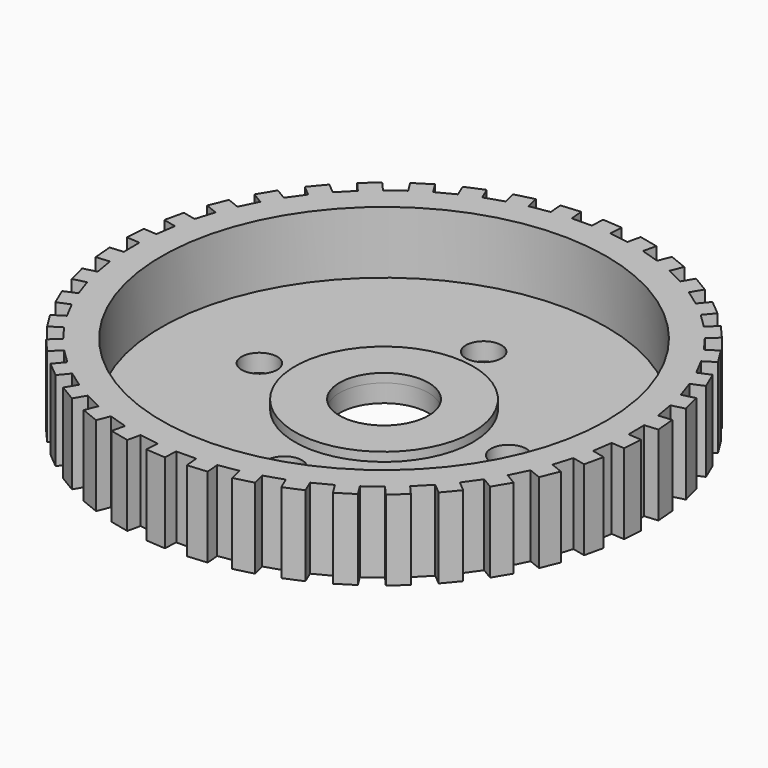
from build123d import *

# Parameters (mm, degrees)
PAD_DEPTH       = 9
SKETCH001_R     = 25
POCKET_DEPTH    = 7
SKETCH002_R     = 5
POCKET001_DEPTH = 2.001
SKETCH003_R     = 2
POCKET002_DEPTH = 2.001
SKETCH004_R     = 10
SKETCH004_R_2   = 5
PAD001_DEPTH    = 1


with BuildPart() as part:
    # Sketch → Pad (new body)
    with BuildSketch(Plane.XY):
        Polygon((-26.503024, 9.47509), (-27.894659, 10.03487), (-27.073648, 12.075934), (-25.682014, 11.516154), (-24.694497, 13.504422), (-25.98143, 14.27501), (-24.851234, 16.162511), (-23.564302, 15.391923), (-22.27791, 17.201231), (-23.428452, 18.163652), (-22.016901, 19.851113), (-20.866359, 18.888692), (-19.312767, 20.474488), (-20.298587, 21.605045), (-18.640438, 23.050915), (-17.654617, 21.920358), (-15.872079, 23.243596), (-16.668904, 24.514449), (-14.804986, 25.683127), (-14.00816, 24.412273), (-12.040568, 25.440369), (-12.628778, 26.820227), (-10.604979, 27.682919), (-10.016776, 26.303077), (-7.912578, 27.010715), (-8.277689, 28.465602), (-6.143855, 29.001097), (-5.778745, 27.546211), (-3.589754, 27.915968), (-3.722775, 29.410059), (-1.531443, 29.605156), (-1.398422, 28.111066), (0.821461, 28.133838), (0.923805, 29.630342), (3.118678, 29.480238), (3.016334, 27.983734), (5.21245, 27.658959), (5.547638, 29.121029), (7.692007, 28.629419), (7.356819, 27.167349), (9.47509, 26.503024), (10.03487, 27.894659), (12.075934, 27.073648), (11.516154, 25.682014), (13.504422, 24.694497), (14.27501, 25.98143), (16.162511, 24.851234), (15.391923, 23.564302), (17.201231, 22.27791), (18.163652, 23.428452), (19.851113, 22.016901), (18.888692, 20.866359), (20.474488, 19.312767), (21.605045, 20.298587), (23.050915, 18.640438), (21.920358, 17.654617), (23.243596, 15.872079), (24.514448, 16.668904), (25.683127, 14.804986), (24.412273, 14.00816), (25.440369, 12.040568), (26.820227, 12.628778), (27.682935, 10.604985), (26.303077, 10.016776), (27.010715, 7.912578), (28.465602, 8.277689), (29.001097, 6.143855), (27.546211, 5.778745), (27.915968, 3.589754), (29.410059, 3.722775), (29.605156, 1.531443), (28.111066, 1.398422), (28.133838, -0.821461), (29.630342, -0.923805), (29.480238, -3.118678), (27.983734, -3.016334), (27.658959, -5.21245), (29.121029, -5.547638), (28.629419, -7.692007), (27.167349, -7.356819), (26.503024, -9.47509), (27.894659, -10.03487), (27.073648, -12.075934), (25.682014, -11.516154), (24.694497, -13.504422), (25.98143, -14.27501), (24.851235, -16.162511), (23.564302, -15.391923), (22.27791, -17.201231), (23.428452, -18.163652), (22.016901, -19.851113), (20.866359, -18.888692), (19.312767, -20.474488), (20.298587, -21.605045), (18.640438, -23.050915), (17.654617, -21.920358), (15.872079, -23.243596), (16.668904, -24.514449), (14.804986, -25.683127), (14.00816, -24.412273), (12.040568, -25.440369), (12.628778, -26.820227), (10.604986, -27.682935), (10.016776, -26.303077), (7.912578, -27.010715), (8.277689, -28.465602), (6.143855, -29.001097), (5.778745, -27.546211), (3.589754, -27.915968), (3.722775, -29.410059), (1.531443, -29.605156), (1.398422, -28.111066), (-0.821461, -28.133838), (-0.923805, -29.630342), (-3.118678, -29.480238), (-3.016334, -27.983734), (-5.21245, -27.658959), (-5.547638, -29.121029), (-7.692007, -28.629419), (-7.356819, -27.167349), (-9.47509, -26.503024), (-10.03487, -27.894659), (-12.075934, -27.073648), (-11.516154, -25.682014), (-13.504422, -24.694497), (-14.27501, -25.98143), (-16.162511, -24.851234), (-15.391923, -23.564302), (-17.201231, -22.27791), (-18.163652, -23.428452), (-19.851113, -22.016901), (-18.888692, -20.866359), (-20.474488, -19.312767), (-21.605045, -20.298587), (-23.050915, -18.640438), (-21.920358, -17.654617), (-23.243596, -15.872079), (-24.514449, -16.668904), (-25.683127, -14.804986), (-24.412273, -14.00816), (-25.440369, -12.040568), (-26.820227, -12.628778), (-27.682935, -10.604985), (-26.303077, -10.016776), (-27.010715, -7.912578), (-28.465602, -8.277689), (-29.001097, -6.143855), (-27.546211, -5.778745), (-27.915968, -3.589754), (-29.410059, -3.722775), (-29.605156, -1.531443), (-28.111066, -1.398422), (-28.133838, 0.821461), (-29.630342, 0.923805), (-29.480238, 3.118678), (-27.983734, 3.016334), (-27.658959, 5.21245), (-29.121029, 5.547638), (-28.629419, 7.692007), (-27.167349, 7.356819), align=None)
    extrude(amount=PAD_DEPTH)

    # Sketch001 (on Face162 of Pad) → Pocket (cut)
    with BuildSketch(Plane.XY.offset(9)):
        Circle(SKETCH001_R)
    extrude(amount=-POCKET_DEPTH, mode=Mode.SUBTRACT)

    # Sketch002 (on Face164 of Pocket) → Pocket001 (cut, through all)
    with BuildSketch(Plane.XY.offset(2)):
        Circle(SKETCH002_R)
    extrude(amount=-POCKET001_DEPTH, mode=Mode.SUBTRACT)

    # Sketch003 (on Face165 of Pocket001) → Pocket002 (cut, through all)
    with BuildSketch(Plane.XY.offset(2)):
        with Locations((0, 14)):
            Circle(SKETCH003_R)
        with Locations((14, 0)):
            Circle(SKETCH003_R)
        with Locations((0, -14)):
            Circle(SKETCH003_R)
        with Locations((-14, 0)):
            Circle(SKETCH003_R)
    extrude(amount=-POCKET002_DEPTH, mode=Mode.SUBTRACT)

    # Sketch004 (on Face169 of Pocket002) → Pad001 (join)
    with BuildSketch(Plane.XY.offset(2)):
        Circle(SKETCH004_R)
        Circle(SKETCH004_R_2, mode=Mode.SUBTRACT)
    extrude(amount=PAD001_DEPTH)


solid = part.part
